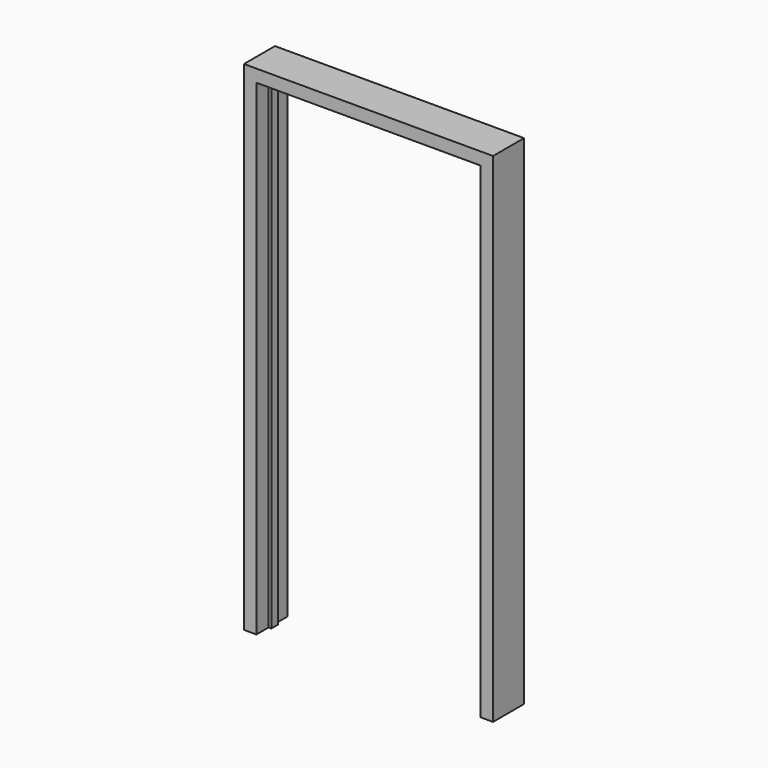
from build123d import *

# Parameters (mm, degrees)
F1_DEPTH = 70
F3_DEPTH = 15


with BuildPart() as f1:
    # F0 (on Front) → F1 (new body, symmetric)
    with BuildSketch(Plane.XZ):
        Polygon((450, 1800), (-450, 1800), (-450, 0), (-405, 0), (-405, 1755), (405, 1755), (405, 0), (450, 0), align=None)
    extrude(amount=F1_DEPTH, both=True)

    # F2 (on Front) → F3 (join, symmetric)
    with BuildSketch(Plane.XZ):
        Polygon((405, 1755), (-405, 1755), (-405, 0), (-395, 0), (-395, 1745), (395, 1745), (395, 0), (405, 0), align=None)
    extrude(amount=F3_DEPTH, both=True)


solid = f1.part
